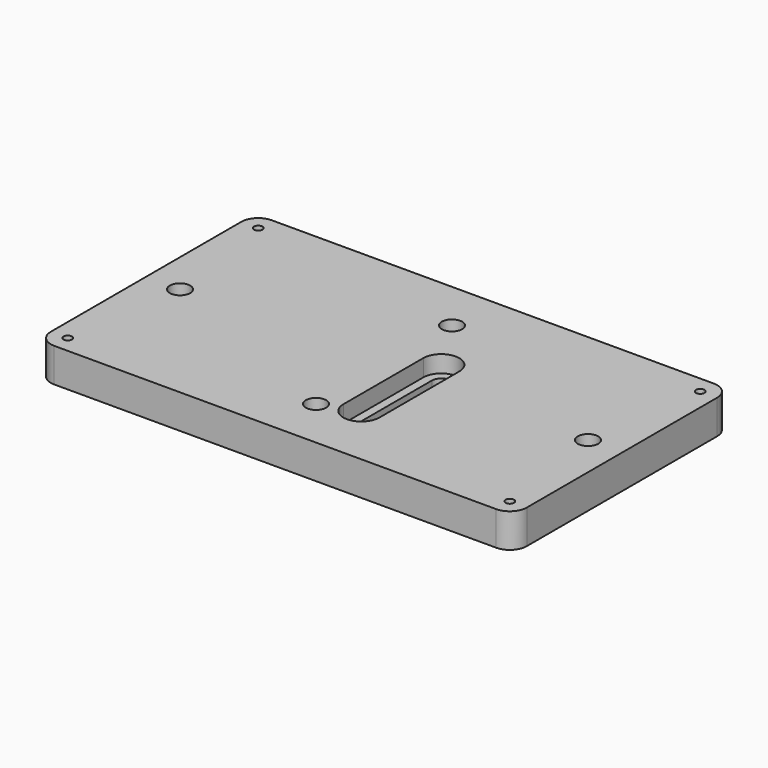
from build123d import *

# Parameters (mm, degrees)
F0_W      = 177.8
F0_H      = 101.6
F1_DEPTH  = 12.7
F2_R      = 3.175
F3_DEPTH  = 1.524
F4_R      = 1.5621
F5_DEPTH  = 6.35
F6_SIZE   = 0.762
F7_R      = 6.35
F8_R      = 1.5875
F9_DEPTH  = 12.701
F10_R     = 1.5875
F11_DEPTH = 12.701
F12_R     = 3.81
F13_DEPTH = 6.35
F15_DEPTH = 12.701
F17_DEPTH = 6.35
F18_R     = 1.5875
F19_DEPTH = 12.701
F20_R     = 3.81
F21_DEPTH = 6.35


with BuildPart() as f1:
    # F0 (on Top) → F1 (new body)
    with BuildSketch(Plane.XY):
        Rectangle(F0_W, F0_H)
    extrude(amount=F1_DEPTH)

    # F2 (on Top) → F3 (join)
    with BuildSketch(Plane.XY):
        with Locations((-38.1, 0)):
            Circle(F2_R)
        with Locations((38.1, 0)):
            Circle(F2_R)
        with Locations((0, -15.875)):
            Circle(F2_R)
    extrude(amount=-F3_DEPTH)

    # F4 (on face) → F5 (join)
    with BuildSketch(Plane(origin=(0, 0, -1.524), x_dir=(1, 0, 0), z_dir=(0, 0, -1))):
        with Locations((-38.1, 0)):
            Circle(F4_R)
        with Locations((38.1, 0)):
            Circle(F4_R)
        with Locations((0, 15.875)):
            Circle(F4_R)
    extrude(amount=F5_DEPTH)

    # F6
    f6_edges = [f1.edges().sort_by_distance(p)[0] for p in [
        (-39.6621, 0, -7.874),
        (-1.5621, -15.875, -7.874),
        (36.5379, 0, -7.874),
    ]]
    chamfer(f6_edges, length=F6_SIZE)

    # F7
    f7_edges = [f1.edges().sort_by_distance(p)[0] for p in [
        (-88.9, -50.8, 6.35),
        (88.9, -50.8, 6.35),
        (88.9, 50.8, 6.35),
        (-88.9, 50.8, 6.35),
    ]]
    fillet(f7_edges, radius=F7_R)

    # F8 (on face) → F9 (cut, through all)
    with BuildSketch(Plane(origin=(0, 0, 0), x_dir=(1, 0, 0), z_dir=(0, 0, -1))):
        with Locations((82.55, 44.45)):
            Circle(F8_R)
        with Locations((82.55, -44.45)):
            Circle(F8_R)
        with Locations((-82.55, -44.45)):
            Circle(F8_R)
        with Locations((-82.55, 44.45)):
            Circle(F8_R)
    extrude(amount=-F9_DEPTH, mode=Mode.SUBTRACT)

    # F10 (on face) → F11 (cut, through all)
    with BuildSketch(Plane(origin=(0, 0, 0), x_dir=(1, 0, 0), z_dir=(0, 0, -1))):
        with Locations((0, 31.75)):
            Circle(F10_R)
        with Locations((0, -31.75)):
            Circle(F10_R)
    extrude(amount=-F11_DEPTH, mode=Mode.SUBTRACT)

    # F12 (on face) → F13 (cut)
    with BuildSketch(Plane.XY.offset(12.7)):
        with Locations((0, 31.75)):
            Circle(F12_R)
        with Locations((0, -31.75)):
            Circle(F12_R)
    extrude(amount=-F13_DEPTH, mode=Mode.SUBTRACT)

    # F14 (on face) → F15 (cut, through all)
    with BuildSketch(Plane(origin=(0, 0, 0), x_dir=(1, 0, 0), z_dir=(0, 0, -1))):
        with BuildLine():
            ThreePointArc((16.637, 26.924), (13.081, 30.48), (9.525, 26.924))
            Line((9.525, 26.924), (9.525, -10.414))
            ThreePointArc((9.525, -10.414), (13.081, -13.97), (16.637, -10.414))
            Line((16.637, -10.414), (16.637, 26.924))
        make_face()
    extrude(amount=-F15_DEPTH, mode=Mode.SUBTRACT)

    # F16 (on face) → F17 (cut)
    with BuildSketch(Plane.XY.offset(12.7)):
        with BuildLine():
            Line((19.812, -26.924), (19.812, 10.414))
            ThreePointArc((19.812, 10.414), (13.081, 17.145), (6.35, 10.414))
            Line((6.35, 10.414), (6.35, -26.924))
            ThreePointArc((6.35, -26.924), (13.081, -33.655), (19.812, -26.924))
        make_face()
    extrude(amount=-F17_DEPTH, mode=Mode.SUBTRACT)

    # F18 (on face) → F19 (cut, through all)
    with BuildSketch(Plane(origin=(0, 0, 0), x_dir=(1, 0, 0), z_dir=(0, 0, -1))):
        with Locations((76.2, 0)):
            Circle(F18_R)
        with Locations((-76.2, 0)):
            Circle(F18_R)
    extrude(amount=-F19_DEPTH, mode=Mode.SUBTRACT)

    # F20 (on face) → F21 (cut)
    with BuildSketch(Plane.XY.offset(12.7)):
        with Locations((-76.2, 0)):
            Circle(F20_R)
        with Locations((76.2, 0)):
            Circle(F20_R)
    extrude(amount=-F21_DEPTH, mode=Mode.SUBTRACT)


solid = f1.part
